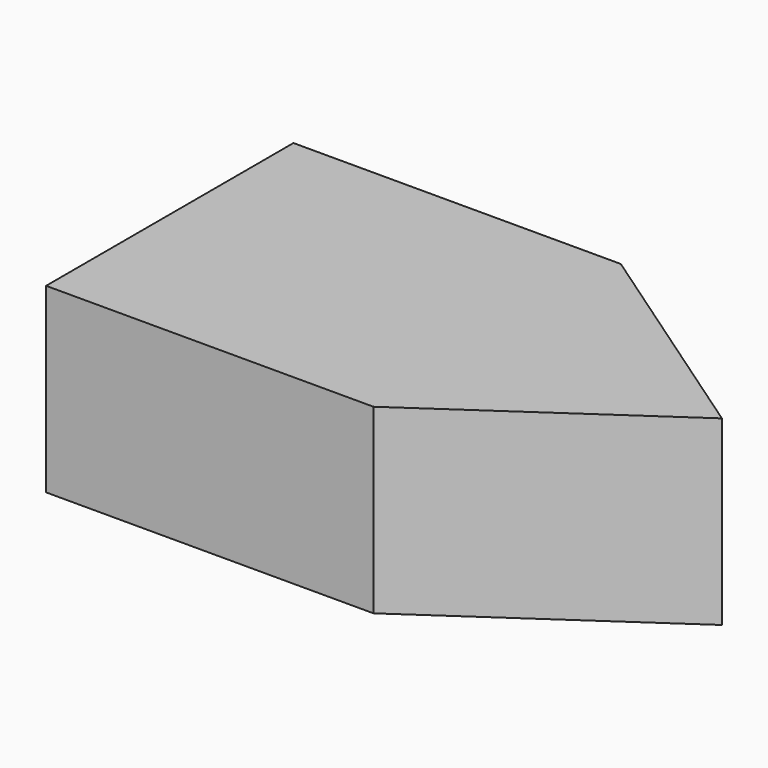
from build123d import *

# Parameters (mm, degrees)
F0_W     = 18
F0_H     = 17
F1_DEPTH = 10


with BuildPart() as f1:
    # F0 (on Top) → F1 (new body)
    with BuildSketch(Plane.XY):
        with Locations((-55.577677, 38.862)):
            Rectangle(F0_W, F0_H)
        Polygon((-34.21847, 38.862), (-46.577677, 47.362), (-46.577677, 30.362), align=None)
    extrude(amount=F1_DEPTH)


solid = f1.part
